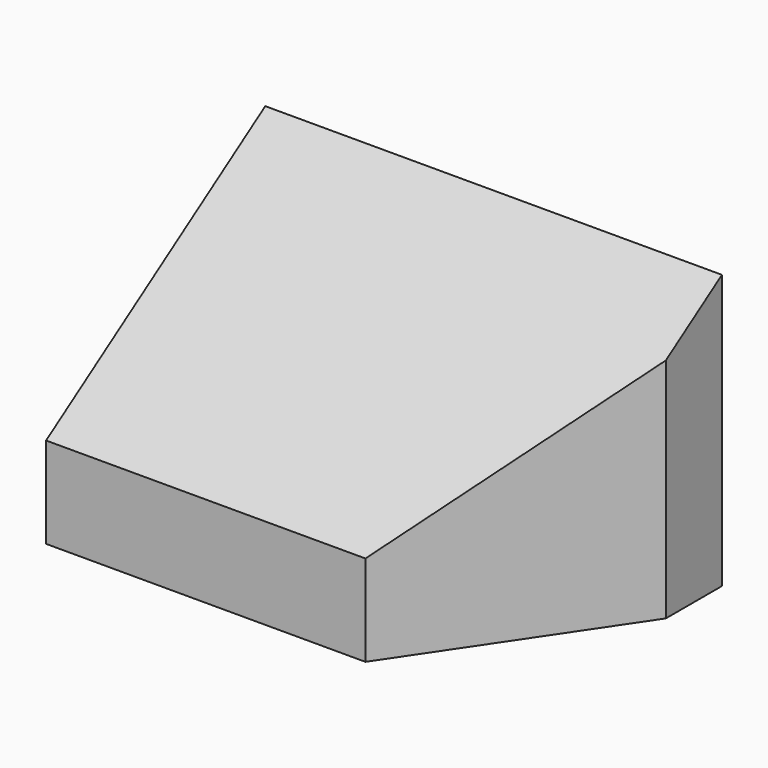
from build123d import *

# Parameters (mm, degrees)
F0_W     = 100
F0_H     = 60
F1_DEPTH = 60
F3_DEPTH = 100
F5_DEPTH = 73.8


with BuildPart() as f1:
    # F0 (on Front) → F1 (new body)
    with BuildSketch(Plane.XZ):
        with Locations((50, 30)):
            Rectangle(F0_W, F0_H)
        with Locations((50, 30)):
            Rectangle(F0_W, F0_H)
    extrude(amount=F1_DEPTH)

    # F2 (on face) → F3 (cut)
    with BuildSketch(Plane(origin=(0, 0, 0), x_dir=(0, -1, 0), z_dir=(-1, 0, 0))):
        Polygon((0, 60), (60, 19.930851), (60, 60), align=None)
    extrude(amount=-F3_DEPTH, mode=Mode.SUBTRACT)

    # F4 (on face) → F5 (cut)
    with BuildSketch(Plane(origin=(0, 0, 0), x_dir=(1, 0, 0), z_dir=(0, 0, -1))):
        Polygon((100, 60), (69.933802, 60), (100, 15.354728), align=None)
    extrude(amount=-F5_DEPTH, mode=Mode.SUBTRACT)


solid = f1.part
